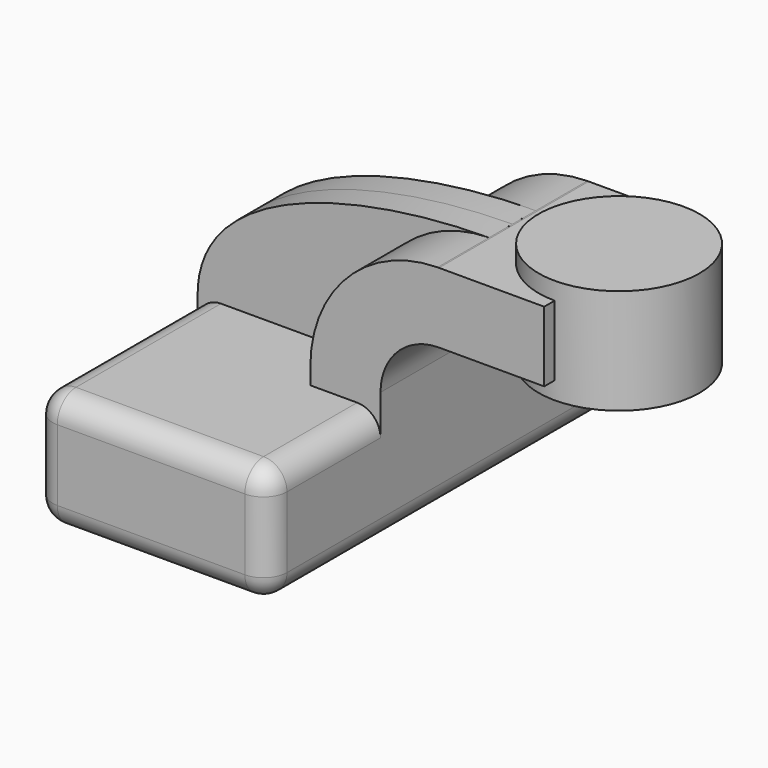
from build123d import *

# Parameters (mm, degrees)
F1_DEPTH = 63.5
F2_DEPTH = 25.4
F3_DEPTH = 7.9375
F5_R     = 6.35


with BuildPart() as f1:
    # F0 (on Front) → F1 (new body, symmetric)
    with BuildSketch(Plane.XZ):
        Polygon((12.7672983825, 16.0020012408), (-31.8172983825, 16.0020012408), (-31.8172983825, -16.0020012408), (31.8172983825, -16.0020012408), (31.8172983825, 16.0020012408), align=None)
    extrude(amount=F1_DEPTH, both=True)

    # F0 (on Front) → F2 (join, symmetric)
    with BuildSketch(Plane.XZ):
        with BuildLine():
            Line((12.7672983825, 20.5231987592), (12.7672983825, 16.0020012408))
            Line((12.7672983825, 16.0020012408), (31.8172983825, 16.0020012408))
            Line((31.8172983825, 16.0020012408), (31.8172983825, 20.5231987592))
            ThreePointArc((31.8172983825, 20.5231987592), (36.3344606658, 31.6144181421), (47.3152697086, 36.3937209427))
            Line((47.3152697086, 36.3937209427), (47.3152697086, 55.4461636158))
            ThreePointArc((47.3152697086, 55.4461636158), (22.8636521102, 45.0852416156), (12.7672983825, 20.5231987592))
        make_face()
        with BuildLine():
            ThreePointArc((47.6922983825, 55.4481987592), (47.5037812992, 55.4476899696), (47.3152697086, 55.4461636158))
            Line((47.3152697086, 55.4461636158), (47.3152697086, 36.3937209427))
            ThreePointArc((47.3152697086, 36.3937209427), (47.5037707507, 36.3970792656), (47.6922983825, 36.3981987592))
            Line((47.6922983825, 36.3981987592), (76.2672983825, 36.3981987592))
            Line((76.2672983825, 36.3981987592), (76.2672983825, 55.4481987592))
            Line((76.2672983825, 55.4481987592), (47.6922983825, 55.4481987592))
        make_face()
    extrude(amount=F2_DEPTH, both=True)

    # F0 (on Front) → F3 (join, symmetric)
    with BuildSketch(Plane.XZ):
        with BuildLine():
            add(Edge.make_bspline(
                [(47.3152697086, 55.447760652), (14.70907961, 55.3720610373), (-31.8172983825, 45.4738341579), (-31.8172983825, 16.0020012408)],
                knots=[0.3413515557, 0.3413515557, 0.3413515557, 0.3413515557, 88.7568503068, 88.7568503068, 88.7568503068, 88.7568503068], degree=3))
            Line((-31.8172983825, 16.0020012408), (12.7672983825, 16.0020012408))
            Line((12.7672983825, 16.0020012408), (12.7672983825, 20.5231987592))
            ThreePointArc((12.7672983825, 20.5231987592), (22.8636521102, 45.0852416156), (47.3152697086, 55.4461636158))
            Line((47.3152697086, 55.4461636158), (47.3152697086, 55.447760652))
        make_face()
    extrude(amount=F3_DEPTH, both=True)

    # F0 (on Front) → F4 (revolve)
    with BuildSketch(Plane.XZ):
        Polygon((98.1152697086, 60.1979987592), (76.2672983825, 60.1979987592), (76.2672983825, 55.4481987592), (76.2672983825, 36.3981987592), (76.2672983825, 31.6229987592), (98.1152697086, 31.6229987592), align=None)
    revolve(axis=Axis((76.2672983825, 0, 45.9104987592), (0, 0, -1)))

    # F5
    f5_edges = [f1.edges().sort_by_distance(p)[0] for p in [
        (31.817298, -63.5, 0),
        (-31.817298, -63.5, 0),
        (-31.817298, 63.5, 0),
        (31.817298, 63.5, 0),
        (0, -63.5, 16.002001),
        (0, -63.5, -16.002001),
        (31.817298, -44.45, 16.002001),
        (31.817298, 0, -16.002001),
        (-31.817298, 35.71875, 16.002001),
        (-31.817298, -35.71875, 16.002001),
        (-31.817298, 0, -16.002001),
        (0, 63.5, 16.002001),
        (0, 63.5, -16.002001),
        (31.817298, 44.45, 16.002001),
    ]]
    fillet(f5_edges, radius=F5_R)


solid = f1.part
